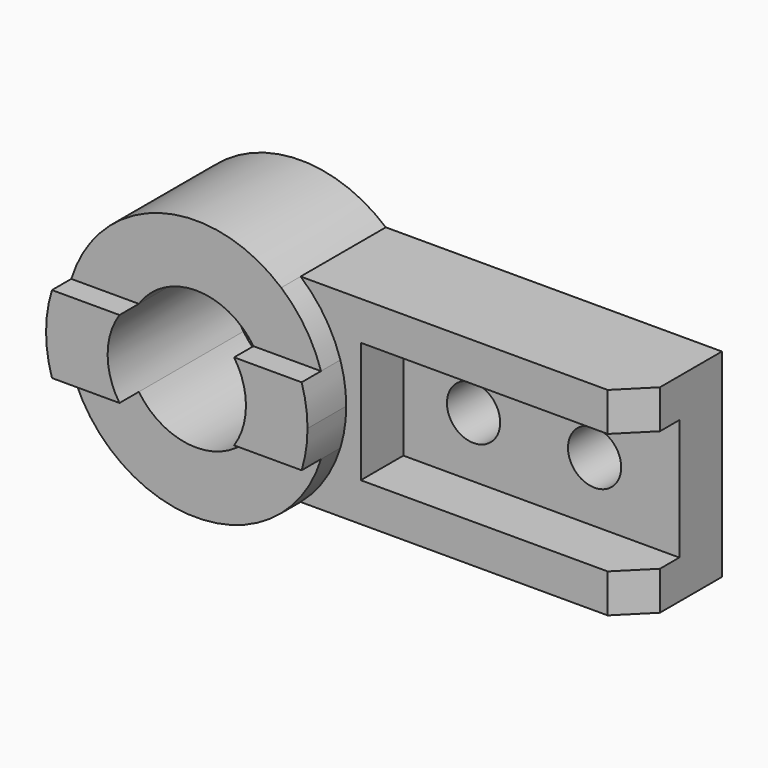
from build123d import *

# Parameters (mm, degrees)
F1_DEPTH = 54
F2_DEPTH = 64
F3_DEPTH = 44
F0_W     = 114
F0_H     = 50
F0_R     = 11
F4_DEPTH = 22
F6_DEPTH = 95.001


with BuildPart() as f1:
    # F0 (on Front) → F1 (new body)
    with BuildSketch(Plane.XZ):
        with BuildLine():
            Line((23.675528, 16), (51.575188, 16))
            ThreePointArc((51.575188, 16), (45.124741, 29.660711), (35.142567, 41))
            ThreePointArc((35.142567, 41), (-14.958535, 51.886821), (-51.575188, 16))
            Line((-51.575188, 16), (-23.675528, 16))
            ThreePointArc((-23.675528, 16), (0, 28.575), (23.675528, 16))
        make_face()
        with BuildLine():
            ThreePointArc((35.142567, -41), (45.124741, -29.660711), (51.575188, -16))
            Line((51.575188, -16), (23.675528, -16))
            ThreePointArc((23.675528, -16), (0, -28.575), (-23.675528, -16))
            Line((-23.675528, -16), (-51.575188, -16))
            ThreePointArc((-51.575188, -16), (-14.958535, -51.886821), (35.142567, -41))
        make_face()
    extrude(amount=F1_DEPTH)


with BuildPart() as f2:
    # F0 (on Front) → F2 (new body)
    with BuildSketch(Plane.XZ):
        with BuildLine():
            Line((-23.675528, 16), (-51.575188, 16))
            ThreePointArc((-51.575188, 16), (-54, 0), (-51.575188, -16))
            Line((-51.575188, -16), (-23.675528, -16))
            ThreePointArc((-23.675528, -16), (-28.575, 0), (-23.675528, 16))
        make_face()
        with BuildLine():
            ThreePointArc((51.575188, -16), (53.390356, -8.091349), (54, 0))
            ThreePointArc((54, 0), (53.390356, 8.091349), (51.575188, 16))
            Line((51.575188, 16), (23.675528, 16))
            ThreePointArc((23.675528, 16), (27.322691, 8.366672), (28.575, 0))
            ThreePointArc((28.575, 0), (27.322691, -8.366672), (23.675528, -16))
            Line((23.675528, -16), (51.575188, -16))
        make_face()
    extrude(amount=F2_DEPTH)


with BuildPart() as f3:
    # F0 (on Front) → F3 (new body)
    with BuildSketch(Plane.XZ):
        with BuildLine():
            ThreePointArc((51.575188, 16), (53.390356, 8.091349), (54, 0))
            ThreePointArc((54, 0), (53.390356, -8.091349), (51.575188, -16))
            ThreePointArc((51.575188, -16), (45.124741, -29.660711), (35.142567, -41))
            Line((35.142567, -41), (174, -41))
            Line((174, -41), (174, -25))
            Line((174, -25), (60, -25))
            Line((60, -25), (60, 25))
            Line((60, 25), (174, 25))
            Line((174, 25), (174, 41))
            Line((174, 41), (35.142567, 41))
            ThreePointArc((35.142567, 41), (45.124741, 29.660711), (51.575188, 16))
        make_face()
    extrude(amount=F3_DEPTH)

    # F0 (on Front) → F4 (join)
    with BuildSketch(Plane.XZ):
        with Locations((117, 0)):
            Rectangle(F0_W, F0_H)
        with Locations((89, 0)):
            Circle(F0_R, mode=Mode.SUBTRACT)
        with Locations((139, 0)):
            Circle(F0_R, mode=Mode.SUBTRACT)
    extrude(amount=F4_DEPTH)

    # F5 (on face) → F6 (cut, through all)
    with BuildSketch(Plane(origin=(0, 0, -41), x_dir=(1, 0, 0), z_dir=(0, 0, -1))):
        Polygon((174, 44), (162, 44), (174, 32), align=None)
    extrude(amount=-F6_DEPTH, mode=Mode.SUBTRACT)


solid = Compound([f1.part, f2.part, f3.part])
